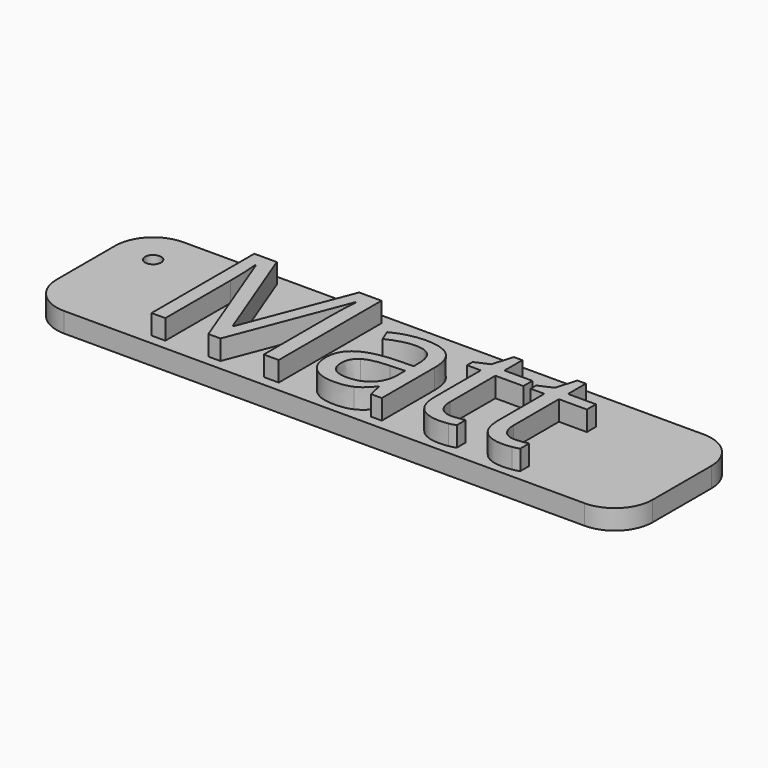
from build123d import *

# Parameters (mm, degrees)
F0_R     = 0.8
F1_DEPTH = 2
F2_DEPTH = 4
F3_DEPTH = 4
F4_DEPTH = 2
F5_DEPTH = 4
F6_DEPTH = 2.5


with BuildPart() as f1:
    # F0 (on Top) → F1 (new body)
    with BuildSketch(Plane.XY):
        with BuildLine():
            ThreePointArc((30, 3.69), (28.8840768363, 6.3840768363), (26.19, 7.5))
            Line((26.19, 7.5), (-26.19, 7.5))
            ThreePointArc((-26.19, 7.5), (-28.8840768363, 6.3840768363), (-30, 3.69))
            Line((-30, 3.69), (-30, -3.69))
            ThreePointArc((-30, -3.69), (-28.8840768363, -6.3840768363), (-26.19, -7.5))
            Line((-26.19, -7.5), (26.19, -7.5))
            ThreePointArc((26.19, -7.5), (28.8840768363, -6.3840768363), (30, -3.69))
            Line((30, -3.69), (30, 3.69))
        make_face()
        with BuildLine():
            Line((-11.2838908856, -6.4806478423), (-12.4949831323, -6.4806478423))
            Line((-12.4949831323, -6.4806478423), (-16.8809480446, 4.9794540253))
            Line((-16.8809480446, 4.9794540253), (-16.9516894142, 4.9794540253))
            add(Edge.make_bspline(
                [(-16.9516894142, 4.9794540253), (-16.8271846037, 3.6183900751), (-16.8271846037, 1.7423289545)],
                knots=[0, 0, 0, 1, 1, 1], degree=2))
            Line((-16.8271846037, 1.7423289545), (-16.8271846037, -6.4806478423))
            Line((-16.8271846037, -6.4806478423), (-18.2165451018, -6.4806478423))
            Line((-18.2165451018, -6.4806478423), (-18.2165451018, 6.4480448572))
            Line((-18.2165451018, 6.4480448572), (-15.9528212761, 6.4480448572))
            Line((-15.9528212761, 6.4480448572), (-11.8583108063, -4.2169240166))
            Line((-11.8583108063, -4.2169240166), (-11.7875694368, -4.2169240166))
            Line((-11.7875694368, -4.2169240166), (-7.6591031097, 6.4480448572))
            Line((-7.6591031097, 6.4480448572), (-5.4123572127, 6.4480448572))
            Line((-5.4123572127, 6.4480448572), (-5.4123572127, -6.4806478423))
            Line((-5.4123572127, -6.4806478423), (-6.914903902, -6.4806478423))
            Line((-6.914903902, -6.4806478423), (-6.914903902, 1.8498558363))
            add(Edge.make_bspline(
                [(-6.914903902, 1.8498558363), (-6.914903902, 3.281661156), (-6.7903990916, 4.9624760966)],
                knots=[0, 0, 0, 1, 1, 1], degree=2))
            Line((-6.7903990916, 4.9624760966), (-6.8611404611, 4.9624760966))
            Line((-6.8611404611, 4.9624760966), (-11.2838908856, -6.4806478423))
        make_face(mode=Mode.SUBTRACT)
        with BuildLine():
            Line((4.9611572186, -6.4806478423), (3.8717401274, -6.4806478423))
            Line((3.8717401274, -6.4806478423), (3.5802856849, -5.0997763086))
            Line((3.5802856849, -5.0997763086), (3.5095443153, -5.0997763086))
            add(Edge.make_bspline(
                [(3.5095443153, -5.0997763086), (2.7851526911, -6.0109251485), (2.0650055491, -6.334920621)],
                knots=[0, 0, 0, 1, 1, 1], degree=2))
            add(Edge.make_bspline(
                [(2.0650055491, -6.334920621), (1.344858407, -6.6589160936), (0.2639302802, -6.6589160936)],
                knots=[0, 0, 0, 1, 1, 1], degree=2))
            add(Edge.make_bspline(
                [(0.2639302802, -6.6589160936), (-1.1763640039, -6.6589160936), (-1.9941342359, -5.9147168859)],
                knots=[0, 0, 0, 1, 1, 1], degree=2))
            add(Edge.make_bspline(
                [(-1.9941342359, -5.9147168859), (-2.8119044679, -5.1705176782), (-2.8119044679, -3.8009647636)],
                knots=[0, 0, 0, 1, 1, 1], degree=2))
            add(Edge.make_bspline(
                [(-2.8119044679, -3.8009647636), (-2.8119044679, -0.8666127546), (1.8824928156, -0.7251300155)],
                knots=[0, 0, 0, 1, 1, 1], degree=2))
            Line((1.8824928156, -0.7251300155), (3.526522244, -0.6713665746))
            Line((3.526522244, -0.6713665746), (3.526522244, -0.068650106))
            add(Edge.make_bspline(
                [(3.526522244, -0.068650106), (3.526522244, 1.0717007712), (3.0369919667, 1.6149944893)],
                knots=[0, 0, 0, 1, 1, 1], degree=2))
            add(Edge.make_bspline(
                [(3.0369919667, 1.6149944893), (2.5474616894, 2.1582882075), (1.4665335626, 2.1582882075)],
                knots=[0, 0, 0, 1, 1, 1], degree=2))
            add(Edge.make_bspline(
                [(1.4665335626, 2.1582882075), (0.2554413159, 2.1582882075), (-1.2725722664, 1.4169186546)],
                knots=[0, 0, 0, 1, 1, 1], degree=2))
            Line((-1.2725722664, 1.4169186546), (-1.7253170316, 2.5402916031))
            add(Edge.make_bspline(
                [(-1.7253170316, 2.5402916031), (-1.0094143717, 2.9279543082), (-0.1562734549, 3.1486673813)],
                knots=[0, 0, 0, 1, 1, 1], degree=2))
            add(Edge.make_bspline(
                [(-0.1562734549, 3.1486673813), (0.6968674619, 3.3693804543), (1.5570825157, 3.3693804543)],
                knots=[0, 0, 0, 1, 1, 1], degree=2))
            add(Edge.make_bspline(
                [(1.5570825157, 3.3693804543), (3.2888312423, 3.3693804543), (4.1249942304, 2.6011291809)],
                knots=[0, 0, 0, 1, 1, 1], degree=2))
            add(Edge.make_bspline(
                [(4.1249942304, 2.6011291809), (4.9611572186, 1.8328779076), (4.9611572186, 0.1350850383)],
                knots=[0, 0, 0, 1, 1, 1], degree=2))
            Line((4.9611572186, 0.1350850383), (4.9611572186, -6.4806478423))
        make_face(mode=Mode.SUBTRACT)
        with BuildLine():
            add(Edge.make_bspline(
                [(9.9724758377, -4.9766863256), (10.3884350907, -5.444994192), (11.1128267149, -5.444994192)],
                knots=[0, 0, 0, 1, 1, 1], degree=2))
            add(Edge.make_bspline(
                [(11.1128267149, -5.444994192), (11.5033190748, -5.444994192), (11.8655148869, -5.3884010964)],
                knots=[0, 0, 0, 1, 1, 1], degree=2))
            add(Edge.make_bspline(
                [(11.8655148869, -5.3884010964), (12.227710699, -5.3318080007), (12.4399348077, -5.2695555955)],
                knots=[0, 0, 0, 1, 1, 1], degree=2))
            Line((12.4399348077, -5.2695555955), (12.4399348077, -6.392928544))
            add(Edge.make_bspline(
                [(12.4399348077, -6.392928544), (12.202243806, -6.5061147353), (11.7381804217, -6.5825154144)],
                knots=[0, 0, 0, 1, 1, 1], degree=2))
            add(Edge.make_bspline(
                [(11.7381804217, -6.5825154144), (11.2741170375, -6.6589160936), (10.9006026062, -6.6589160936)],
                knots=[0, 0, 0, 1, 1, 1], degree=2))
            add(Edge.make_bspline(
                [(10.9006026062, -6.6589160936), (8.0907554076, -6.6589160936), (8.0907554076, -3.6962675367)],
                knots=[0, 0, 0, 1, 1, 1], degree=2))
            Line((8.0907554076, -3.6962675367), (8.0907554076, 2.0705689093))
            Line((8.0907554076, 2.0705689093), (6.7013949096, 2.0705689093))
            Line((6.7013949096, 2.0705689093), (6.7013949096, 2.7779826048))
            Line((6.7013949096, 2.7779826048), (8.0907554076, 3.3891880377))
            Line((8.0907554076, 3.3891880377), (8.7076201501, 5.4576656835))
            Line((8.7076201501, 5.4576656835), (9.5565165847, 5.4576656835))
            Line((9.5565165847, 5.4576656835), (9.5565165847, 3.2109197865))
            Line((9.5565165847, 3.2109197865), (12.3691934381, 3.2109197865))
            Line((12.3691934381, 3.2109197865), (12.3691934381, 2.0705689093))
            Line((12.3691934381, 2.0705689093), (9.5565165847, 2.0705689093))
            Line((9.5565165847, 2.0705689093), (9.5565165847, -3.6340151315))
            add(Edge.make_bspline(
                [(9.5565165847, -3.6340151315), (9.5565165847, -4.5083784592), (9.9724758377, -4.9766863256)],
                knots=[0, 0, 0, 1, 1, 1], degree=2))
        make_face(mode=Mode.SUBTRACT)
        with BuildLine():
            add(Edge.make_bspline(
                [(16.3646659905, -4.9766863256), (16.7806252435, -5.444994192), (17.5050168677, -5.444994192)],
                knots=[0, 0, 0, 1, 1, 1], degree=2))
            add(Edge.make_bspline(
                [(17.5050168677, -5.444994192), (17.8955092276, -5.444994192), (18.2577050397, -5.3884010964)],
                knots=[0, 0, 0, 1, 1, 1], degree=2))
            add(Edge.make_bspline(
                [(18.2577050397, -5.3884010964), (18.6199008518, -5.3318080007), (18.8321249605, -5.2695555955)],
                knots=[0, 0, 0, 1, 1, 1], degree=2))
            Line((18.8321249605, -5.2695555955), (18.8321249605, -6.392928544))
            add(Edge.make_bspline(
                [(18.8321249605, -6.392928544), (18.5944339588, -6.5061147353), (18.1303705745, -6.5825154144)],
                knots=[0, 0, 0, 1, 1, 1], degree=2))
            add(Edge.make_bspline(
                [(18.1303705745, -6.5825154144), (17.6663071903, -6.6589160936), (17.292792759, -6.6589160936)],
                knots=[0, 0, 0, 1, 1, 1], degree=2))
            add(Edge.make_bspline(
                [(17.292792759, -6.6589160936), (14.4829455604, -6.6589160936), (14.4829455604, -3.6962675367)],
                knots=[0, 0, 0, 1, 1, 1], degree=2))
            Line((14.4829455604, -3.6962675367), (14.4829455604, 2.0705689093))
            Line((14.4829455604, 2.0705689093), (13.0935850624, 2.0705689093))
            Line((13.0935850624, 2.0705689093), (13.0935850624, 2.7779826048))
            Line((13.0935850624, 2.7779826048), (14.4829455604, 3.3891880377))
            Line((14.4829455604, 3.3891880377), (15.0998103029, 5.4576656835))
            Line((15.0998103029, 5.4576656835), (15.9487067375, 5.4576656835))
            Line((15.9487067375, 5.4576656835), (15.9487067375, 3.2109197865))
            Line((15.9487067375, 3.2109197865), (18.7613835909, 3.2109197865))
            Line((18.7613835909, 3.2109197865), (18.7613835909, 2.0705689093))
            Line((18.7613835909, 2.0705689093), (15.9487067375, 2.0705689093))
            Line((15.9487067375, 2.0705689093), (15.9487067375, -3.6340151315))
            add(Edge.make_bspline(
                [(15.9487067375, -3.6340151315), (15.9487067375, -4.5083784592), (16.3646659905, -4.9766863256)],
                knots=[0, 0, 0, 1, 1, 1], degree=2))
        make_face(mode=Mode.SUBTRACT)
        with Locations((-26.19, 3.69)):
            Circle(F0_R, mode=Mode.SUBTRACT)
    extrude(amount=F1_DEPTH)

    # F0 (on Top) → F2 (join)
    with BuildSketch(Plane.XY):
        with BuildLine():
            Line((3.5802856849, -5.0997763086), (3.8717401274, -6.4806478423))
            Line((3.8717401274, -6.4806478423), (4.9611572186, -6.4806478423))
            Line((4.9611572186, -6.4806478423), (4.9611572186, 0.1350850383))
            add(Edge.make_bspline(
                [(4.1249942304, 2.6011291809), (4.9611572186, 1.8328779076), (4.9611572186, 0.1350850383)],
                knots=[0, 0, 0, 1, 1, 1], degree=2))
            add(Edge.make_bspline(
                [(1.5570825157, 3.3693804543), (3.2888312423, 3.3693804543), (4.1249942304, 2.6011291809)],
                knots=[0, 0, 0, 1, 1, 1], degree=2))
            add(Edge.make_bspline(
                [(-0.1562734549, 3.1486673813), (0.6968674619, 3.3693804543), (1.5570825157, 3.3693804543)],
                knots=[0, 0, 0, 1, 1, 1], degree=2))
            add(Edge.make_bspline(
                [(-1.7253170316, 2.5402916031), (-1.0094143717, 2.9279543082), (-0.1562734549, 3.1486673813)],
                knots=[0, 0, 0, 1, 1, 1], degree=2))
            Line((-1.7253170316, 2.5402916031), (-1.2725722664, 1.4169186546))
            add(Edge.make_bspline(
                [(1.4665335626, 2.1582882075), (0.2554413159, 2.1582882075), (-1.2725722664, 1.4169186546)],
                knots=[0, 0, 0, 1, 1, 1], degree=2))
            add(Edge.make_bspline(
                [(3.0369919667, 1.6149944893), (2.5474616894, 2.1582882075), (1.4665335626, 2.1582882075)],
                knots=[0, 0, 0, 1, 1, 1], degree=2))
            add(Edge.make_bspline(
                [(3.526522244, -0.068650106), (3.526522244, 1.0717007712), (3.0369919667, 1.6149944893)],
                knots=[0, 0, 0, 1, 1, 1], degree=2))
            Line((3.526522244, -0.068650106), (3.526522244, -0.6713665746))
            Line((3.526522244, -0.6713665746), (1.8824928156, -0.7251300155))
            add(Edge.make_bspline(
                [(-2.8119044679, -3.8009647636), (-2.8119044679, -0.8666127546), (1.8824928156, -0.7251300155)],
                knots=[0, 0, 0, 1, 1, 1], degree=2))
            add(Edge.make_bspline(
                [(-1.9941342359, -5.9147168859), (-2.8119044679, -5.1705176782), (-2.8119044679, -3.8009647636)],
                knots=[0, 0, 0, 1, 1, 1], degree=2))
            add(Edge.make_bspline(
                [(0.2639302802, -6.6589160936), (-1.1763640039, -6.6589160936), (-1.9941342359, -5.9147168859)],
                knots=[0, 0, 0, 1, 1, 1], degree=2))
            add(Edge.make_bspline(
                [(2.0650055491, -6.334920621), (1.344858407, -6.6589160936), (0.2639302802, -6.6589160936)],
                knots=[0, 0, 0, 1, 1, 1], degree=2))
            add(Edge.make_bspline(
                [(3.5095443153, -5.0997763086), (2.7851526911, -6.0109251485), (2.0650055491, -6.334920621)],
                knots=[0, 0, 0, 1, 1, 1], degree=2))
            Line((3.5095443153, -5.0997763086), (3.5802856849, -5.0997763086))
        make_face()
        with BuildLine():
            add(Edge.make_bspline(
                [(0.5553847228, -5.444994192), (1.9277672921, -5.444994192), (2.7101668394, -4.6937208474)],
                knots=[0, 0, 0, 1, 1, 1], degree=2))
            add(Edge.make_bspline(
                [(-0.7915309535, -5.0304497665), (-0.3104896405, -5.444994192), (0.5553847228, -5.444994192)],
                knots=[0, 0, 0, 1, 1, 1], degree=2))
            add(Edge.make_bspline(
                [(-1.2725722664, -3.8179426923), (-1.2725722664, -4.6159053409), (-0.7915309535, -5.0304497665)],
                knots=[0, 0, 0, 1, 1, 1], degree=2))
            add(Edge.make_bspline(
                [(-0.5000765109, -2.3196404852), (-1.2725722664, -2.8020966255), (-1.2725722664, -3.8179426923)],
                knots=[0, 0, 0, 1, 1, 1], degree=2))
            add(Edge.make_bspline(
                [(2.0239755547, -1.7749319396), (0.2724192446, -1.8371843448), (-0.5000765109, -2.3196404852)],
                knots=[0, 0, 0, 1, 1, 1], degree=2))
            Line((2.0239755547, -1.7749319396), (3.4925663866, -1.7155091892))
            Line((3.4925663866, -1.7155091892), (3.4925663866, -2.5898725169))
            add(Edge.make_bspline(
                [(2.7101668394, -4.6937208474), (3.4925663866, -3.9424475027), (3.4925663866, -2.5898725169)],
                knots=[0, 0, 0, 1, 1, 1], degree=2))
        make_face(mode=Mode.SUBTRACT)
    extrude(amount=F2_DEPTH)

    # F0 (on Top) → F3 (join)
    with BuildSketch(Plane.XY):
        with BuildLine():
            Line((-16.8809480446, 4.9794540253), (-12.4949831323, -6.4806478423))
            Line((-12.4949831323, -6.4806478423), (-11.2838908856, -6.4806478423))
            Line((-11.2838908856, -6.4806478423), (-6.8611404611, 4.9624760966))
            Line((-6.8611404611, 4.9624760966), (-6.7903990916, 4.9624760966))
            add(Edge.make_bspline(
                [(-6.914903902, 1.8498558363), (-6.914903902, 3.281661156), (-6.7903990916, 4.9624760966)],
                knots=[0, 0, 0, 1, 1, 1], degree=2))
            Line((-6.914903902, 1.8498558363), (-6.914903902, -6.4806478423))
            Line((-6.914903902, -6.4806478423), (-5.4123572127, -6.4806478423))
            Line((-5.4123572127, -6.4806478423), (-5.4123572127, 6.4480448572))
            Line((-5.4123572127, 6.4480448572), (-7.6591031097, 6.4480448572))
            Line((-7.6591031097, 6.4480448572), (-11.7875694368, -4.2169240166))
            Line((-11.7875694368, -4.2169240166), (-11.8583108063, -4.2169240166))
            Line((-11.8583108063, -4.2169240166), (-15.9528212761, 6.4480448572))
            Line((-15.9528212761, 6.4480448572), (-18.2165451018, 6.4480448572))
            Line((-18.2165451018, 6.4480448572), (-18.2165451018, -6.4806478423))
            Line((-18.2165451018, -6.4806478423), (-16.8271846037, -6.4806478423))
            Line((-16.8271846037, -6.4806478423), (-16.8271846037, 1.7423289545))
            add(Edge.make_bspline(
                [(-16.9516894142, 4.9794540253), (-16.8271846037, 3.6183900751), (-16.8271846037, 1.7423289545)],
                knots=[0, 0, 0, 1, 1, 1], degree=2))
            Line((-16.9516894142, 4.9794540253), (-16.8809480446, 4.9794540253))
        make_face()
    extrude(amount=F3_DEPTH)

    # F0 (on Top) → F4 (join)
    with BuildSketch(Plane.XY):
        with BuildLine():
            add(Edge.make_bspline(
                [(-0.7915309535, -5.0304497665), (-0.3104896405, -5.444994192), (0.5553847228, -5.444994192)],
                knots=[0, 0, 0, 1, 1, 1], degree=2))
            add(Edge.make_bspline(
                [(0.5553847228, -5.444994192), (1.9277672921, -5.444994192), (2.7101668394, -4.6937208474)],
                knots=[0, 0, 0, 1, 1, 1], degree=2))
            add(Edge.make_bspline(
                [(2.7101668394, -4.6937208474), (3.4925663866, -3.9424475027), (3.4925663866, -2.5898725169)],
                knots=[0, 0, 0, 1, 1, 1], degree=2))
            Line((3.4925663866, -2.5898725169), (3.4925663866, -1.7155091892))
            Line((3.4925663866, -1.7155091892), (2.0239755547, -1.7749319396))
            add(Edge.make_bspline(
                [(2.0239755547, -1.7749319396), (0.2724192446, -1.8371843448), (-0.5000765109, -2.3196404852)],
                knots=[0, 0, 0, 1, 1, 1], degree=2))
            add(Edge.make_bspline(
                [(-0.5000765109, -2.3196404852), (-1.2725722664, -2.8020966255), (-1.2725722664, -3.8179426923)],
                knots=[0, 0, 0, 1, 1, 1], degree=2))
            add(Edge.make_bspline(
                [(-1.2725722664, -3.8179426923), (-1.2725722664, -4.6159053409), (-0.7915309535, -5.0304497665)],
                knots=[0, 0, 0, 1, 1, 1], degree=2))
        make_face()
    extrude(amount=F4_DEPTH)

    # F0 (on Top) → F5 (join)
    with BuildSketch(Plane.XY):
        with BuildLine():
            add(Edge.make_bspline(
                [(11.1128267149, -5.444994192), (11.5033190748, -5.444994192), (11.8655148869, -5.3884010964)],
                knots=[0, 0, 0, 1, 1, 1], degree=2))
            add(Edge.make_bspline(
                [(9.9724758377, -4.9766863256), (10.3884350907, -5.444994192), (11.1128267149, -5.444994192)],
                knots=[0, 0, 0, 1, 1, 1], degree=2))
            add(Edge.make_bspline(
                [(9.5565165847, -3.6340151315), (9.5565165847, -4.5083784592), (9.9724758377, -4.9766863256)],
                knots=[0, 0, 0, 1, 1, 1], degree=2))
            Line((9.5565165847, -3.6340151315), (9.5565165847, 2.0705689093))
            Line((9.5565165847, 2.0705689093), (12.3691934381, 2.0705689093))
            Line((12.3691934381, 2.0705689093), (12.3691934381, 3.2109197865))
            Line((12.3691934381, 3.2109197865), (9.5565165847, 3.2109197865))
            Line((9.5565165847, 3.2109197865), (9.5565165847, 5.4576656835))
            Line((9.5565165847, 5.4576656835), (8.7076201501, 5.4576656835))
            Line((8.7076201501, 5.4576656835), (8.0907554076, 3.3891880377))
            Line((8.0907554076, 3.3891880377), (6.7013949096, 2.7779826048))
            Line((6.7013949096, 2.7779826048), (6.7013949096, 2.0705689093))
            Line((6.7013949096, 2.0705689093), (8.0907554076, 2.0705689093))
            Line((8.0907554076, 2.0705689093), (8.0907554076, -3.6962675367))
            add(Edge.make_bspline(
                [(10.9006026062, -6.6589160936), (8.0907554076, -6.6589160936), (8.0907554076, -3.6962675367)],
                knots=[0, 0, 0, 1, 1, 1], degree=2))
            add(Edge.make_bspline(
                [(11.7381804217, -6.5825154144), (11.2741170375, -6.6589160936), (10.9006026062, -6.6589160936)],
                knots=[0, 0, 0, 1, 1, 1], degree=2))
            add(Edge.make_bspline(
                [(12.4399348077, -6.392928544), (12.202243806, -6.5061147353), (11.7381804217, -6.5825154144)],
                knots=[0, 0, 0, 1, 1, 1], degree=2))
            Line((12.4399348077, -6.392928544), (12.4399348077, -5.2695555955))
            add(Edge.make_bspline(
                [(11.8655148869, -5.3884010964), (12.227710699, -5.3318080007), (12.4399348077, -5.2695555955)],
                knots=[0, 0, 0, 1, 1, 1], degree=2))
        make_face()
        with BuildLine():
            add(Edge.make_bspline(
                [(17.5050168677, -5.444994192), (17.8955092276, -5.444994192), (18.2577050397, -5.3884010964)],
                knots=[0, 0, 0, 1, 1, 1], degree=2))
            add(Edge.make_bspline(
                [(16.3646659905, -4.9766863256), (16.7806252435, -5.444994192), (17.5050168677, -5.444994192)],
                knots=[0, 0, 0, 1, 1, 1], degree=2))
            add(Edge.make_bspline(
                [(15.9487067375, -3.6340151315), (15.9487067375, -4.5083784592), (16.3646659905, -4.9766863256)],
                knots=[0, 0, 0, 1, 1, 1], degree=2))
            Line((15.9487067375, -3.6340151315), (15.9487067375, 2.0705689093))
            Line((15.9487067375, 2.0705689093), (18.7613835909, 2.0705689093))
            Line((18.7613835909, 2.0705689093), (18.7613835909, 3.2109197865))
            Line((18.7613835909, 3.2109197865), (15.9487067375, 3.2109197865))
            Line((15.9487067375, 3.2109197865), (15.9487067375, 5.4576656835))
            Line((15.9487067375, 5.4576656835), (15.0998103029, 5.4576656835))
            Line((15.0998103029, 5.4576656835), (14.4829455604, 3.3891880377))
            Line((14.4829455604, 3.3891880377), (13.0935850624, 2.7779826048))
            Line((13.0935850624, 2.7779826048), (13.0935850624, 2.0705689093))
            Line((13.0935850624, 2.0705689093), (14.4829455604, 2.0705689093))
            Line((14.4829455604, 2.0705689093), (14.4829455604, -3.6962675367))
            add(Edge.make_bspline(
                [(17.292792759, -6.6589160936), (14.4829455604, -6.6589160936), (14.4829455604, -3.6962675367)],
                knots=[0, 0, 0, 1, 1, 1], degree=2))
            add(Edge.make_bspline(
                [(18.1303705745, -6.5825154144), (17.6663071903, -6.6589160936), (17.292792759, -6.6589160936)],
                knots=[0, 0, 0, 1, 1, 1], degree=2))
            add(Edge.make_bspline(
                [(18.8321249605, -6.392928544), (18.5944339588, -6.5061147353), (18.1303705745, -6.5825154144)],
                knots=[0, 0, 0, 1, 1, 1], degree=2))
            Line((18.8321249605, -6.392928544), (18.8321249605, -5.2695555955))
            add(Edge.make_bspline(
                [(18.2577050397, -5.3884010964), (18.6199008518, -5.3318080007), (18.8321249605, -5.2695555955)],
                knots=[0, 0, 0, 1, 1, 1], degree=2))
        make_face()
    extrude(amount=F5_DEPTH)

    # F6 (add): a face of the model
    f6_faces = [f1.faces().sort_by_distance(p)[0] for p in [
        (-14.5180251043, -0.6855579578, 4),
    ]]
    extrude(f6_faces, amount=-F6_DEPTH)


solid = f1.part
